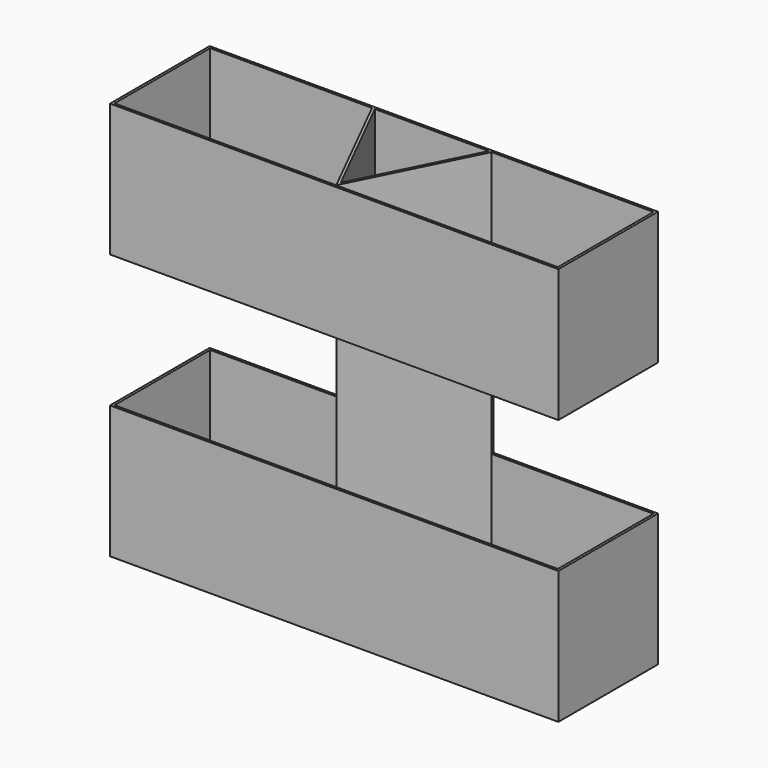
from build123d import *

# Parameters (mm, degrees)
F0_W     = 540
F0_H     = 150
F0_W_2   = 534
F0_H_2   = 144
F1_DEPTH = 480
F2_W     = 540
F2_H     = 160
F3_DEPTH = 150.001
F5_DEPTH = 480
F6_W     = 144
F6_H     = 160
F7_DEPTH = 3


with BuildPart() as f1:
    # F0 (on Top) → F1 (new body)
    with BuildSketch(Plane.XY):
        Rectangle(F0_W, F0_H)
        Rectangle(F0_W_2, F0_H_2, mode=Mode.SUBTRACT)
    extrude(amount=F1_DEPTH)

    # F2 (on face) → F3 (cut, through all)
    with BuildSketch(Plane(origin=(0, 75, 0), x_dir=(-1, 0, 0), z_dir=(0, 1, 0))):
        with Locations((0, 240)):
            Rectangle(F2_W, F2_H)
    extrude(amount=-F3_DEPTH, mode=Mode.SUBTRACT)


with BuildPart() as f5:
    # F4 (on Top) → F5 (new body)
    with BuildSketch(Plane.XY):
        Polygon((-72, 72), (0, -71.8838125467), (72, 72), (68.6453561654, 72), (0, -65.1799383154), (-68.6453561654, 72), align=None)
    extrude(amount=F5_DEPTH)


with BuildPart() as f7:
    # F6 (on face) → F7 (new body)
    with BuildSketch(Plane(origin=(0, 75, 0), x_dir=(-1, 0, 0), z_dir=(0, 1, 0))):
        with Locations((0, 240)):
            Rectangle(F6_W, F6_H)
    extrude(amount=-F7_DEPTH)


solid = Compound([f1.part, f5.part, f7.part])
